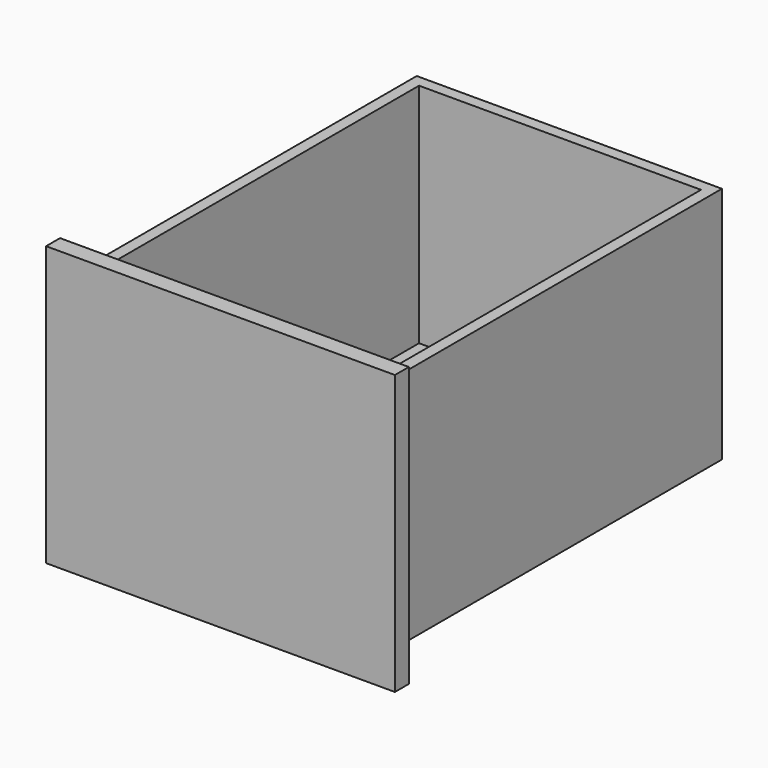
from build123d import *

# Parameters (mm, degrees)
F0_W     = 381
F0_H     = 304.8
F1_DEPTH = 19.05
F3_DEPTH = 457.2
F4_W     = 307.975
F4_H     = 431.8
F5_DEPTH = 6.35
F6_W     = 307.975
F6_H     = 431.8
F7_DEPTH = 247.65


with BuildPart() as f1:
    # F0 (on Front) → F1 (new body)
    with BuildSketch(Plane.XZ):
        Rectangle(F0_W, F0_H)
    extrude(amount=F1_DEPTH)

    # F2 (on face) → F3 (join)
    with BuildSketch(Plane(origin=(0, 0, 0), x_dir=(-1, 0, 0), z_dir=(0, 1, 0))):
        Polygon((-166.6875, -130.175), (0, -130.175), (166.6875, -130.175), (166.6875, 130.175), (-166.6875, 130.175), align=None)
    extrude(amount=F3_DEPTH)

    # F4 (on face) → F5 (cut)
    with BuildSketch(Plane(origin=(0, 0, -130.175), x_dir=(1, 0, 0), z_dir=(0, 0, -1))):
        with Locations((0, -228.6)):
            Rectangle(F4_W, F4_H)
    extrude(amount=-F5_DEPTH, mode=Mode.SUBTRACT)

    # F6 (on face) → F7 (cut)
    with BuildSketch(Plane.XY.offset(130.175)):
        with Locations((0, 228.6)):
            Rectangle(F6_W, F6_H)
    extrude(amount=-F7_DEPTH, mode=Mode.SUBTRACT)


solid = f1.part
